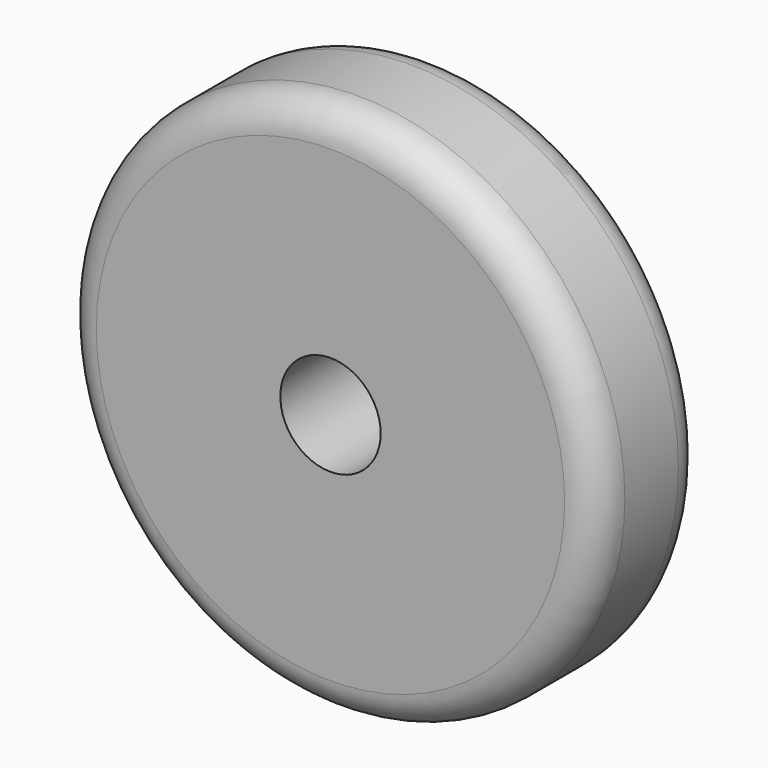
from build123d import *

# Parameters (mm, degrees)
F0_R     = 50.8
F1_DEPTH = 25.4
F2_R     = 9.525
F3_DEPTH = 25.401
F4_R     = 6.35


with BuildPart() as f1:
    # F0 (on Front) → F1 (new body)
    with BuildSketch(Plane.XZ):
        Circle(F0_R)
    extrude(amount=F1_DEPTH)

    # F2 (on face) → F3 (cut, through all)
    with BuildSketch(Plane.XZ.offset(25.4)):
        Circle(F2_R)
    extrude(amount=-F3_DEPTH, mode=Mode.SUBTRACT)

    # F4
    f4_edges = [f1.edges().sort_by_distance(p)[0] for p in [
        (-50.8, -25.4, 0),
        (-50.8, 0, 0),
    ]]
    fillet(f4_edges, radius=F4_R)


solid = f1.part
